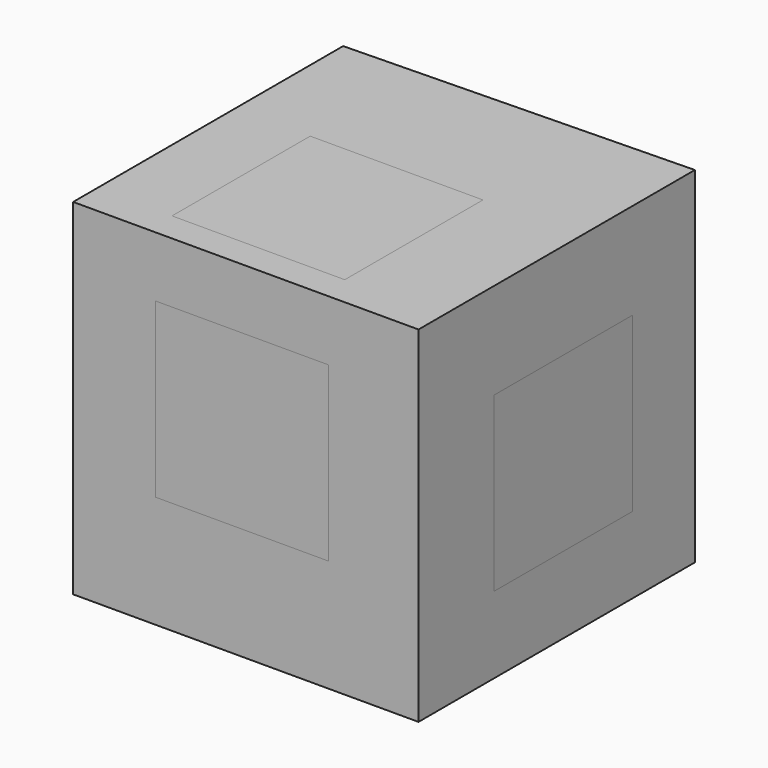
from build123d import *

# Parameters (mm, degrees)
F1_DEPTH  = 25.4
F2_W      = 12.7
F2_H      = 12.7
F3_DEPTH  = 3.175
F4_W      = 12.7
F4_H      = 12.7
F5_DEPTH  = 3.175
F6_W      = 12.7
F6_H      = 12.7
F7_DEPTH  = 3.175
F8_W      = 12.7
F8_H      = 12.7
F9_DEPTH  = 3.175
F10_W     = 12.7
F10_H     = 12.7
F11_DEPTH = 3.175
F12_W     = 12.7
F12_H     = 12.7
F13_DEPTH = 3.175
F14_W     = 12.7
F14_H     = 12.7
F15_DEPTH = 3.175
F16_W     = 12.7
F16_H     = 12.7
F18_DEPTH = 3.175
F19_W     = 12.7
F19_H     = 12.7
F21_DEPTH = 3.175
F22_W     = 12.7
F22_H     = 12.7
F23_DEPTH = 3.175
F24_W     = 12.7
F24_H     = 12.7
F25_DEPTH = 3.175
F27_W     = 12.6634519547
F27_H     = 12.9512590356
F28_DEPTH = 3.175


with BuildPart() as f1:
    # F0 (on Top) → F1 (new body)
    with BuildSketch(Plane.XY):
        Polygon((15.7185920732, 10.5096250758), (-9.6746680545, 9.9245267207), (-9.6746680545, -14.8903749242), (15.7185920732, -14.8903749242), align=None)
    extrude(amount=F1_DEPTH)

    # F2 (on face) → F3 (cut)
    with BuildSketch(Plane.XY.offset(25.4)):
        with Locations((2.1936363501, -6.35)):
            Rectangle(F2_W, F2_H)
    extrude(amount=-F3_DEPTH, mode=Mode.SUBTRACT)

    # F4 (on face) → F5 (cut)
    with BuildSketch(Plane.YZ.offset(15.7185920732)):
        with Locations((-1.5829310287, 11.9817761521)):
            Rectangle(F4_W, F4_H)
    extrude(amount=-F5_DEPTH, mode=Mode.SUBTRACT)

    # F6 (on face) → F7 (cut)
    with BuildSketch(Plane.XZ.offset(14.8903749242)):
        with Locations((2.7341544628, 14.6086736287)):
            Rectangle(F6_W, F6_H)
    extrude(amount=-F7_DEPTH, mode=Mode.SUBTRACT)

    # F8 (on face) → F9 (cut)
    with BuildSketch(Plane(origin=(0, 0, 0), x_dir=(1, 0, 0), z_dir=(0, 0, -1))):
        with Locations((6.35, 1.7318187479)):
            Rectangle(F8_W, F8_H)
    extrude(amount=-F9_DEPTH, mode=Mode.SUBTRACT)

    # F10 (on face) → F11 (cut)
    with BuildSketch(Plane(origin=(-0.2336881171, 10.1420608934, 0), x_dir=(-0.9997346507, -0.0230353683, 0), z_dir=(-0.0230353683, 0.9997346507, 0))):
        with Locations((-3.112571314, 16.4134004896)):
            Rectangle(F10_W, F10_H)
    extrude(amount=-F11_DEPTH, mode=Mode.SUBTRACT)

    # F12 (on face) → F13 (cut)
    with BuildSketch(Plane(origin=(-9.6746680545, 0, 0), x_dir=(0, -1, 0), z_dir=(-1, 0, 0))):
        with Locations((2.1585428622, 11.0805242696)):
            Rectangle(F12_W, F12_H)
    extrude(amount=-F13_DEPTH, mode=Mode.SUBTRACT)


with BuildPart() as f15:
    # F14 (on face) → F15 (new body)
    with BuildSketch(Plane.XY.offset(22.225)):
        with Locations((2.1936363501, -6.35)):
            Rectangle(F14_W, F14_H)
    extrude(amount=F15_DEPTH)


with BuildPart() as f18:
    # F16 (on face) → F18 (new body)
    with BuildSketch(Plane.YZ.offset(12.5435920732)):
        with Locations((-1.5829310287, 11.9817761521)):
            Rectangle(F16_W, F16_H)
    extrude(amount=F18_DEPTH)


with BuildPart() as f21:
    # F19 (on face) → F21 (new body)
    with BuildSketch(Plane(origin=(-0.1605508227, 6.9679033774, 0), x_dir=(-0.9997346507, -0.0230353683, 0), z_dir=(-0.0230353683, 0.9997346507, 0))):
        with Locations((-3.112571314, 16.4134004896)):
            Rectangle(F19_W, F19_H)
    extrude(amount=F21_DEPTH)


with BuildPart() as f23:
    # F22 (on face) → F23 (new body)
    with BuildSketch(Plane(origin=(-6.4996680545, 0, 0), x_dir=(0, -1, 0), z_dir=(-1, 0, 0))):
        with Locations((2.1585428622, 11.0805242696)):
            Rectangle(F22_W, F22_H)
    extrude(amount=F23_DEPTH)


with BuildPart() as f25:
    # F24 (on face) → F25 (new body)
    with BuildSketch(Plane.XZ.offset(11.7153749242)):
        with Locations((2.7341544628, 14.6086736287)):
            Rectangle(F24_W, F24_H)
    extrude(amount=F25_DEPTH)


with BuildPart() as f28:
    # F27 (on face) → F28 (new body)
    with BuildSketch(Plane(origin=(0, 0, 3.175), x_dir=(1, 0, 0), z_dir=(0, 0, -1))):
        with Locations((6.3317259774, 1.5829314943)):
            Rectangle(F27_W, F27_H)
    extrude(amount=F28_DEPTH)


solid = Compound([f1.part, f15.part, f18.part, f21.part, f23.part, f25.part, f28.part])
